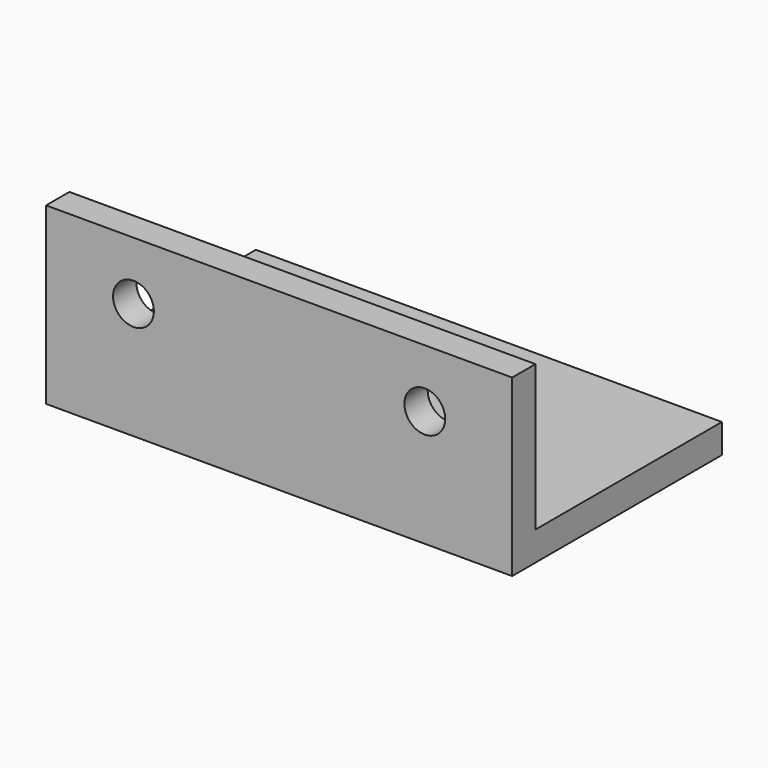
from build123d import *

# Parameters (mm, degrees)
F0_W     = 50.8
F0_H     = 25.4
F1_DEPTH = 3.175
F2_W     = 50.8
F2_H     = 19.05
F3_DEPTH = 3.175
F6_D     = 4.445
F8_D     = 4.445


with BuildPart() as f1:
    # F0 (on Top) → F1 (new body)
    with BuildSketch(Plane.XY):
        Rectangle(F0_W, F0_H)
    extrude(amount=F1_DEPTH)

    # F2 (on face) → F3 (join)
    with BuildSketch(Plane.XZ.offset(12.7)):
        with Locations((0, 9.525)):
            Rectangle(F2_W, F2_H)
    extrude(amount=F3_DEPTH)

    # F6 (through all)
    with Locations(Plane.XZ.offset(15.875)):
        with Locations((15.875, 12.7)):
            Hole(F6_D / 2)

    # F8 (through all)
    with Locations(Plane.XZ.offset(15.875)):
        with Locations((-15.875, 12.7)):
            Hole(F8_D / 2)


solid = f1.part
